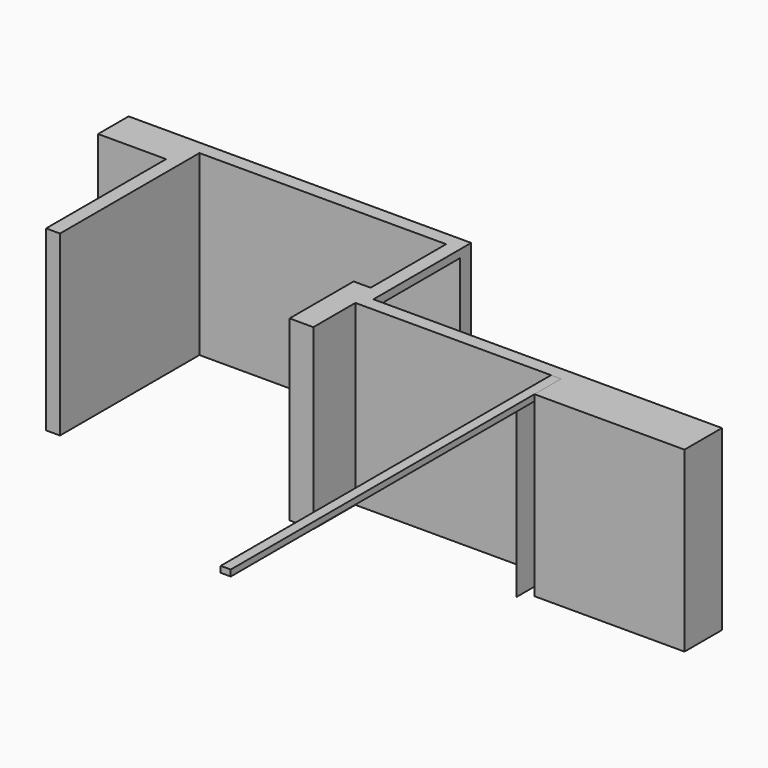
from build123d import *

# Parameters (mm, degrees)
F1_DEPTH = 2300
F2_W     = 1220
F2_H     = 700
F3_DEPTH = 80
F2_H_2   = 1500
F4_DEPTH = 4687.001
F6_DEPTH = 5340
F5_W     = 0.5
F5_H     = 2215
F7_DEPTH = 560


with BuildPart() as f1:
    # F0 (on Top) → F1 (new body)
    with BuildSketch(Plane.XY):
        Polygon((-87, 355), (-307, 355), (-307, -680), (0, -680), (0, 0), (2660, 0), (2660, -430), (4600, -430), (4600, 175), (93, 175), (93, 1755), (-4337, 1755), (-4337, 1261), (-3457, 1261), (-3457, -679), (-3277, -679), (-3277, 1575), (-87, 1575), align=None)
    extrude(amount=F1_DEPTH)

    # F2 (on face) → F3 (join)
    with BuildSketch(Plane(origin=(-87, 0, 0), x_dir=(0, -1, 0), z_dir=(-1, 0, 0))):
        with Locations((-965, 350)):
            Rectangle(F2_W, F2_H)
    extrude(amount=F3_DEPTH)

    # F2 (on face) → F4 (cut, through all)
    with BuildSketch(Plane(origin=(-87, 0, 0), x_dir=(0, -1, 0), z_dir=(-1, 0, 0))):
        with Locations((-965, 1450)):
            Rectangle(F2_W, F2_H_2)
    extrude(amount=-F4_DEPTH, mode=Mode.SUBTRACT)


with BuildPart() as f6:
    # F5 (on face) → F6 (new body)
    with BuildSketch(Plane.XZ):
        Polygon((2660, 2220), (2660, 2300), (2530, 2300), (2530, 2220), (2534, 2220), (2534.5, 2220), align=None)
    extrude(amount=F6_DEPTH)


with BuildPart() as f7:
    # F5 (on face) → F7 (new body)
    with BuildSketch(Plane.XZ):
        with Locations((2534.25, 1112.5)):
            Rectangle(F5_W, F5_H)
    extrude(amount=F7_DEPTH)


solid = Compound([f1.part, f6.part, f7.part])
